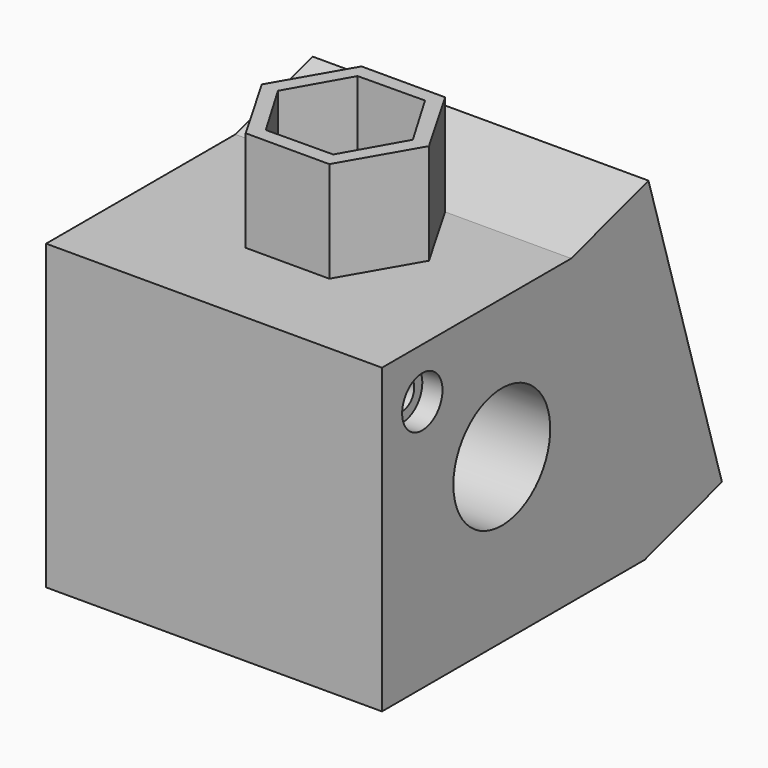
from build123d import *

# Parameters (mm, degrees)
F0_W           = 33.2969208248
F0_H           = 32.5569906272
F1_DEPTH       = 30
F3_DEPTH       = 10
F5_D           = 12
F6_D           = 3
F6_CBORE_D     = 5
F6_CBORE_DEPTH = 2
F8_W           = 33.2969208248
F8_H           = 31.3508008987
F9_DEPTH       = 10


with BuildPart() as f1:
    # F0 (on Top) → F1 (new body)
    with BuildSketch(Plane.XY):
        with Locations((-11.1816951539, -9.1013486963)):
            Rectangle(F0_W, F0_H)
    extrude(amount=F1_DEPTH)

    # F2 (on face) → F3 (join)
    with BuildSketch(Plane.XY.offset(30)):
        Polygon((-15.3242121898, -16.2763986737), (-7.039178118, -16.2763986737), (-2.8966610822, -9.1013486963), (-7.039178118, -1.9262987189), (-15.3242121898, -1.9262987189), (-19.4667292257, -9.1013486963), align=None)
        Polygon((-14.4506519977, -14.8810296934), (-17.8215241451, -9.1601895243), (-14.5525673013, -3.3805085272), (-7.9127383102, -3.3216676992), (-4.5418661628, -9.0425078683), (-7.8108230065, -14.8221888654), align=None, mode=Mode.SUBTRACT)
    extrude(amount=F3_DEPTH)

    # F5 (through all)
    with Locations(Plane.YZ.offset(5.4667652585)):
        with Locations((-10.5295337308, 16.1808457948)):
            Hole(F5_D / 2)

    # F6 (through all)
    with Locations(Plane.YZ.offset(5.4667652585)):
        with Locations((-20.3798440099, 25)):
            CounterBoreHole(F6_D / 2, F6_CBORE_D / 2, F6_CBORE_DEPTH)

    # F8 (on 3pt) → F9 (join)
    with BuildSketch(Plane(origin=(0, 6.5719923281, 1.994259097), x_dir=(1, 0, 0), z_dir=(0, -0.9569133528, -0.2903736133))):
        with Locations((-11.1816951539, 13.591346453)):
            Rectangle(F8_W, F8_H)
    extrude(amount=-F9_DEPTH)


solid = f1.part
